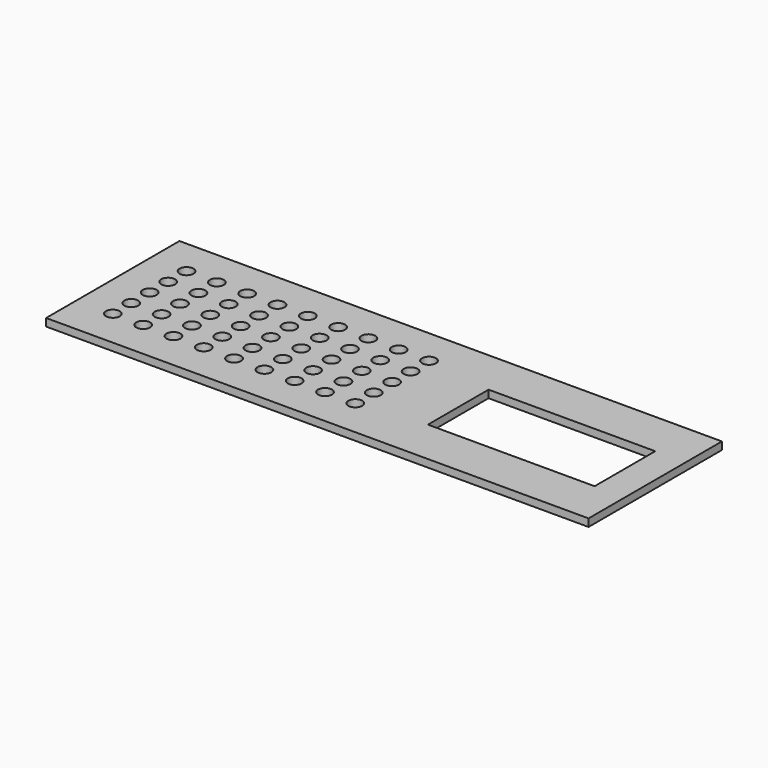
from build123d import *

# Parameters (mm, degrees)
F0_W     = 454.66
F0_H     = 139.7
F0_R     = 5.818501
F0_W_2   = 139.7
F0_H_2   = 63.5
F1_DEPTH = 6.35


with BuildPart() as f1:
    # F0 (on Top) → F1 (new body)
    with BuildSketch(Plane.XY):
        Rectangle(F0_W, F0_H)
        with Locations((-196.976259, -37.826285)):
            Circle(F0_R, mode=Mode.SUBTRACT)
        with Locations((-171.576259, -37.826285)):
            Circle(F0_R, mode=Mode.SUBTRACT)
        with Locations((-146.176259, -37.826285)):
            Circle(F0_R, mode=Mode.SUBTRACT)
        with Locations((-120.776259, -37.826285)):
            Circle(F0_R, mode=Mode.SUBTRACT)
        with Locations((-95.376259, -37.826285)):
            Circle(F0_R, mode=Mode.SUBTRACT)
        with Locations((-69.976259, -37.826285)):
            Circle(F0_R, mode=Mode.SUBTRACT)
        with Locations((-44.576259, -37.826285)):
            Circle(F0_R, mode=Mode.SUBTRACT)
        with Locations((-19.176259, -37.826285)):
            Circle(F0_R, mode=Mode.SUBTRACT)
        with Locations((-196.976259, -18.522285)):
            Circle(F0_R, mode=Mode.SUBTRACT)
        with Locations((-171.576259, -18.522285)):
            Circle(F0_R, mode=Mode.SUBTRACT)
        with Locations((-146.176259, -18.522285)):
            Circle(F0_R, mode=Mode.SUBTRACT)
        with Locations((-120.776259, -18.522285)):
            Circle(F0_R, mode=Mode.SUBTRACT)
        with Locations((-95.376259, -18.522285)):
            Circle(F0_R, mode=Mode.SUBTRACT)
        with Locations((-69.976259, -18.522285)):
            Circle(F0_R, mode=Mode.SUBTRACT)
        with Locations((-44.576259, -18.522285)):
            Circle(F0_R, mode=Mode.SUBTRACT)
        with Locations((-19.176259, -18.522285)):
            Circle(F0_R, mode=Mode.SUBTRACT)
        with Locations((6.223741, -37.826285)):
            Circle(F0_R, mode=Mode.SUBTRACT)
        with Locations((6.223741, -18.522285)):
            Circle(F0_R, mode=Mode.SUBTRACT)
        with Locations((-196.976259, 0.781715)):
            Circle(F0_R, mode=Mode.SUBTRACT)
        with Locations((-171.576259, 0.781715)):
            Circle(F0_R, mode=Mode.SUBTRACT)
        with Locations((-146.176259, 0.781715)):
            Circle(F0_R, mode=Mode.SUBTRACT)
        with Locations((-120.776259, 0.781715)):
            Circle(F0_R, mode=Mode.SUBTRACT)
        with Locations((-196.976259, 20.085715)):
            Circle(F0_R, mode=Mode.SUBTRACT)
        with Locations((-171.576259, 20.085715)):
            Circle(F0_R, mode=Mode.SUBTRACT)
        with Locations((-146.176259, 20.085715)):
            Circle(F0_R, mode=Mode.SUBTRACT)
        with Locations((-120.776259, 20.085715)):
            Circle(F0_R, mode=Mode.SUBTRACT)
        with Locations((-95.376259, 0.781715)):
            Circle(F0_R, mode=Mode.SUBTRACT)
        with Locations((-69.976259, 0.781715)):
            Circle(F0_R, mode=Mode.SUBTRACT)
        with Locations((-44.576259, 0.781715)):
            Circle(F0_R, mode=Mode.SUBTRACT)
        with Locations((-19.176259, 0.781715)):
            Circle(F0_R, mode=Mode.SUBTRACT)
        with Locations((-95.376259, 20.085715)):
            Circle(F0_R, mode=Mode.SUBTRACT)
        with Locations((-69.976259, 20.085715)):
            Circle(F0_R, mode=Mode.SUBTRACT)
        with Locations((-44.576259, 20.085715)):
            Circle(F0_R, mode=Mode.SUBTRACT)
        with Locations((-19.176259, 20.085715)):
            Circle(F0_R, mode=Mode.SUBTRACT)
        with Locations((-196.976259, 39.389715)):
            Circle(F0_R, mode=Mode.SUBTRACT)
        with Locations((-171.576259, 39.389715)):
            Circle(F0_R, mode=Mode.SUBTRACT)
        with Locations((-146.176259, 39.389715)):
            Circle(F0_R, mode=Mode.SUBTRACT)
        with Locations((-120.776259, 39.389715)):
            Circle(F0_R, mode=Mode.SUBTRACT)
        with Locations((-95.376259, 39.389715)):
            Circle(F0_R, mode=Mode.SUBTRACT)
        with Locations((-69.976259, 39.389715)):
            Circle(F0_R, mode=Mode.SUBTRACT)
        with Locations((-44.576259, 39.389715)):
            Circle(F0_R, mode=Mode.SUBTRACT)
        with Locations((-19.176259, 39.389715)):
            Circle(F0_R, mode=Mode.SUBTRACT)
        with Locations((6.223741, 0.781715)):
            Circle(F0_R, mode=Mode.SUBTRACT)
        with Locations((6.223741, 20.085715)):
            Circle(F0_R, mode=Mode.SUBTRACT)
        with Locations((132.08, 0)):
            Rectangle(F0_W_2, F0_H_2, mode=Mode.SUBTRACT)
        with Locations((6.223741, 39.389715)):
            Circle(F0_R, mode=Mode.SUBTRACT)
    extrude(amount=F1_DEPTH)


solid = f1.part
